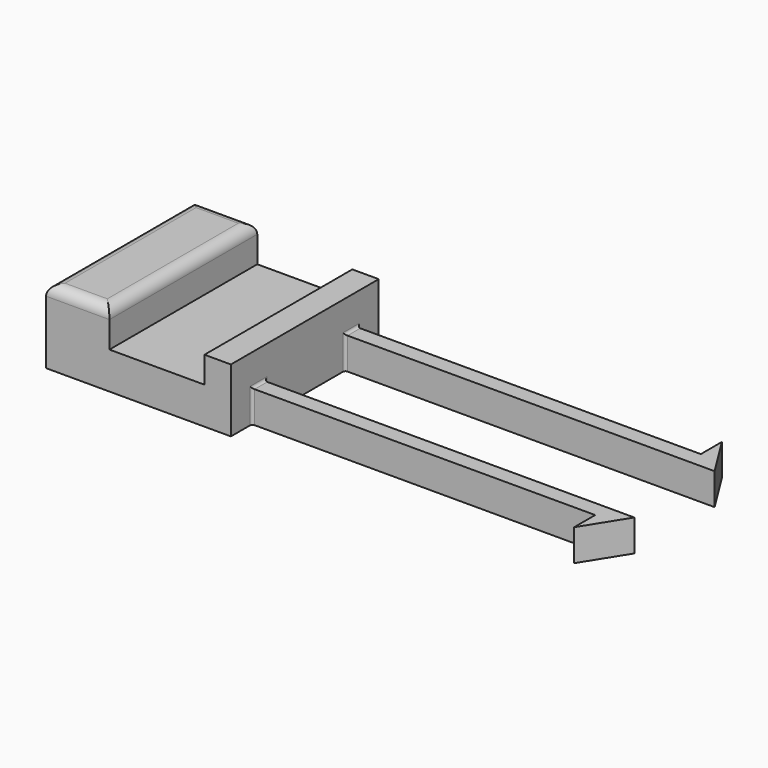
from build123d import *

# Parameters (mm, degrees)
F0_W      = 105
F0_H      = 35
F1_DEPTH  = 7
F2_W      = 70
F2_H      = 19
F3_DEPTH  = 7.001
F5_DEPTH  = 7.001
F7_DEPTH  = 7.001
F8_W      = 65
F8_H      = 5
F9_DEPTH  = 7.001
F10_W     = 65
F10_H     = 5
F11_DEPTH = 7.001
F12_W     = 5
F12_H     = 35
F13_DEPTH = 5
F14_W     = 12
F14_H     = 35
F15_DEPTH = 7
F16_R     = 2
F17_DEPTH = 1
F18_R     = 0.5


with BuildPart() as f1:
    # F0 (on Top) → F1 (new body)
    with BuildSketch(Plane.XY):
        Rectangle(F0_W, F0_H)
    extrude(amount=F1_DEPTH)

    # F2 (on face) → F3 (cut, through all)
    with BuildSketch(Plane.XY.offset(7)):
        with Locations((17.5, 0)):
            Rectangle(F2_W, F2_H)
    extrude(amount=-F3_DEPTH, mode=Mode.SUBTRACT)

    # F4 (on face) → F5 (cut, through all)
    with BuildSketch(Plane.XY.offset(7)):
        Polygon((52.5, 17.5), (47.5, 17.5), (52.5, 9.5), align=None)
    extrude(amount=-F5_DEPTH, mode=Mode.SUBTRACT)

    # F6 (on face) → F7 (cut, through all)
    with BuildSketch(Plane.XY.offset(7)):
        Polygon((52.5, -9.5), (47.5, -17.5), (52.5, -17.5), align=None)
    extrude(amount=-F7_DEPTH, mode=Mode.SUBTRACT)

    # F8 (on face) → F9 (cut, through all)
    with BuildSketch(Plane.XY.offset(7)):
        with Locations((15, 15)):
            Rectangle(F8_W, F8_H)
    extrude(amount=-F9_DEPTH, mode=Mode.SUBTRACT)

    # F10 (on face) → F11 (cut, through all)
    with BuildSketch(Plane.XY.offset(7)):
        with Locations((15, -15)):
            Rectangle(F10_W, F10_H)
    extrude(amount=-F11_DEPTH, mode=Mode.SUBTRACT)

    # F12 (on face) → F13 (join)
    with BuildSketch(Plane.XY.offset(7)):
        with Locations((-20, 0)):
            Rectangle(F12_W, F12_H)
    extrude(amount=F13_DEPTH)

    # F14 (on face) → F15 (join)
    with BuildSketch(Plane.XY.offset(7)):
        with Locations((-46.5, 0)):
            Rectangle(F14_W, F14_H)
    extrude(amount=F15_DEPTH)

    # F16
    f16_edges = [f1.edges().sort_by_distance(p)[0] for p in [
        (-40.5, 0, 14),
        (-46.5, 17.5, 14),
        (-46.5, -17.5, 14),
        (-52.5, 0, 14),
    ]]
    fillet(f16_edges, radius=F16_R)

    # F17 (cut): faces of the model
    f17_faces = [f1.faces().sort_by_distance(p)[0] for p in [
        (18.1782945736, -11.1085271318, 7),
        (18.1782945736, 11.1085271318, 7),
    ]]
    extrude(f17_faces, amount=-F17_DEPTH, mode=Mode.SUBTRACT)

    # F18
    f18_edges = [f1.edges().sort_by_distance(p)[0] for p in [
        (-17.5, -12.5, 3),
        (-17.5, -11, 6),
        (-17.5, 9.5, 3),
        (-17.5, 11, 6),
        (-17.5, -9.5, 3),
        (-17.5, 12.5, 3),
    ]]
    fillet(f18_edges, radius=F18_R)


solid = f1.part
